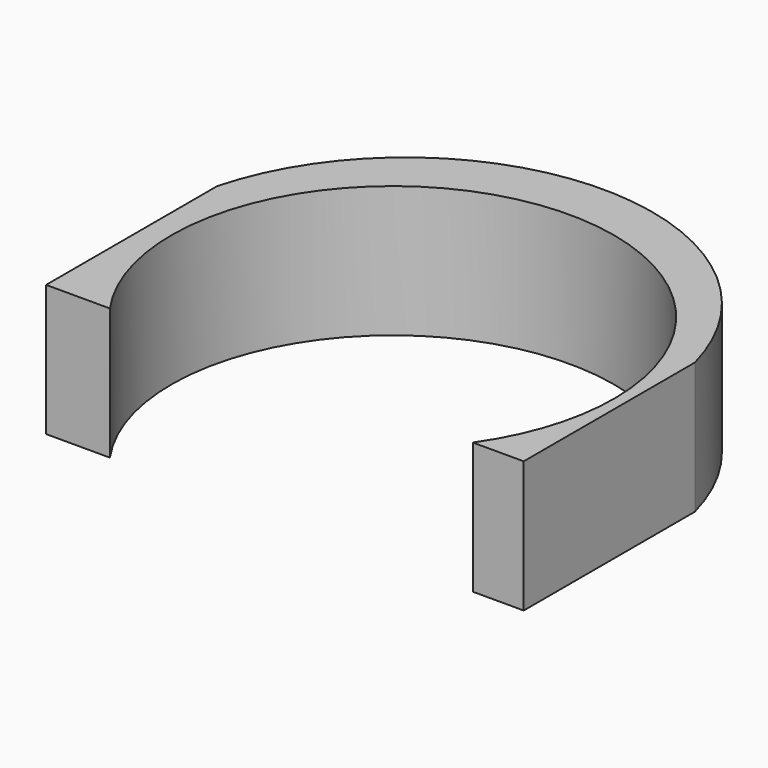
from build123d import *

# Parameters (mm, degrees)
F1_DEPTH = 25


with BuildPart() as f1:
    # F0 (on Top) → F1 (new body)
    with BuildSketch(Plane.XY):
        with BuildLine():
            Line((35.762031, -40.698241), (45.448162, -40.698241))
            Line((45.448162, -40.698241), (45.448162, 0))
            ThreePointArc((45.448162, 0), (0, 35.028155), (-45.448162, 0))
            Line((-45.448162, 0), (-45.448162, -40.698241))
            Line((-45.448162, -40.698241), (-33.305515, -40.698241))
            ThreePointArc((-33.305515, -40.698241), (1.228258, 25.541175), (35.762031, -40.698241))
        make_face()
    extrude(amount=F1_DEPTH)


solid = f1.part
